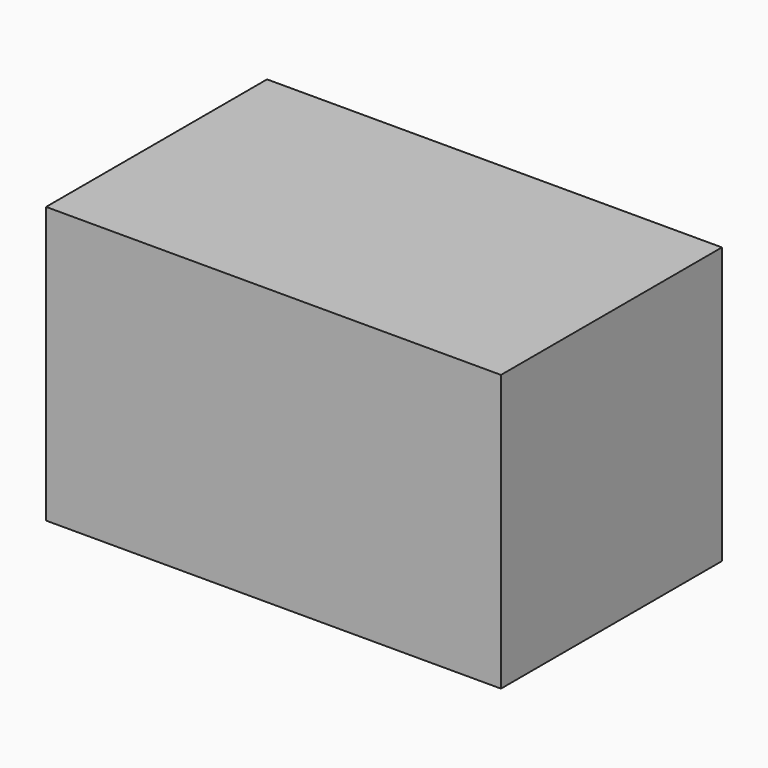
from build123d import *

# Parameters (mm, degrees)
F0_W     = 280
F0_H     = 170
F1_DEPTH = 170
F2_W     = 270
F2_H     = 160
F2_W_2   = 260
F2_H_2   = 150
F3_DEPTH = 3


with BuildPart() as f1:
    # F0 (on Top) → F1 (new body)
    with BuildSketch(Plane.XY):
        Rectangle(F0_W, F0_H)
    extrude(amount=F1_DEPTH)

    # F2 (on face) → F3 (join)
    with BuildSketch(Plane(origin=(0, 0, 0), x_dir=(1, 0, 0), z_dir=(0, 0, -1))):
        Rectangle(F2_W, F2_H)
        Rectangle(F2_W_2, F2_H_2, mode=Mode.SUBTRACT)
    extrude(amount=F3_DEPTH)


solid = f1.part
